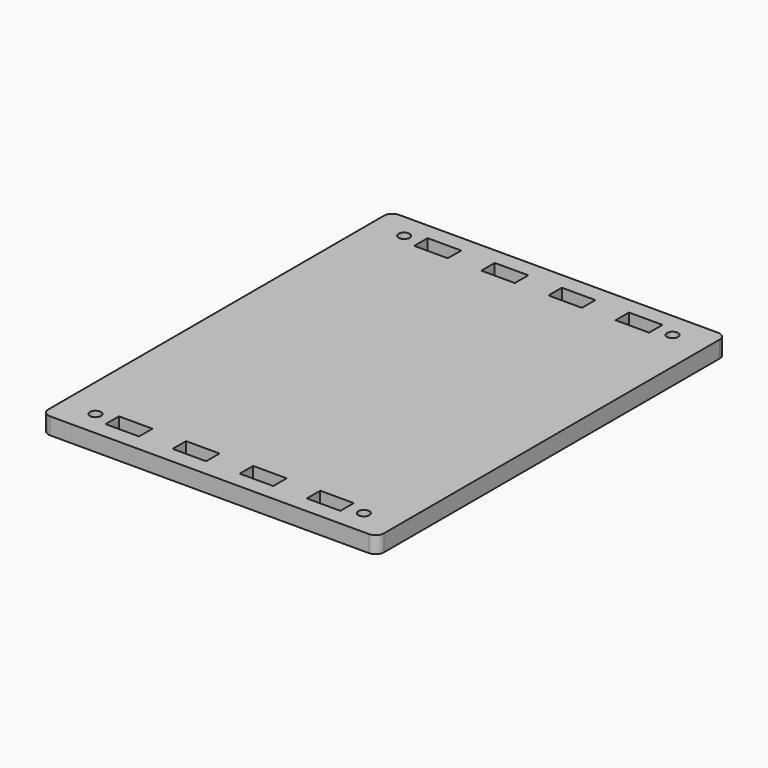
from build123d import *

# Parameters (mm, degrees)
F1_DEPTH = 10
F2_W     = 20
F2_H     = 10
F3_DEPTH = 10
F5_D     = 6.6


with BuildPart() as f1:
    # F0 (on Top) → F1 (new body)
    with BuildSketch(Plane.XY):
        with BuildLine():
            ThreePointArc((100, 125), (98.5355339059, 128.5355339059), (95, 130))
            Line((95, 130), (-95, 130))
            ThreePointArc((-95, 130), (-98.5355339059, 128.5355339059), (-100, 125))
            Line((-100, 125), (-100, -125))
            ThreePointArc((-100, -125), (-98.5355339059, -128.5355339059), (-95, -130))
            Line((-95, -130), (95, -130))
            ThreePointArc((95, -130), (98.5355339059, -128.5355339059), (100, -125))
            Line((100, -125), (100, 125))
        make_face()
    extrude(amount=F1_DEPTH)

    # F2 (on face) → F3 (cut, through all)
    with BuildSketch(Plane.XY.offset(10)):
        with Locations((-60, -115)):
            Rectangle(F2_W, F2_H)
        with Locations((-20, -115)):
            Rectangle(F2_W, F2_H)
        with Locations((20, -115)):
            Rectangle(F2_W, F2_H)
        with Locations((60, -115)):
            Rectangle(F2_W, F2_H)
        with Locations((60, 115)):
            Rectangle(F2_W, F2_H)
        with Locations((-60, 115)):
            Rectangle(F2_W, F2_H)
        with Locations((20, 115)):
            Rectangle(F2_W, F2_H)
        with Locations((-20, 115)):
            Rectangle(F2_W, F2_H)
    extrude(amount=-F3_DEPTH, mode=Mode.SUBTRACT)

    # F5 (through all)
    with Locations(Plane.XY.offset(10)):
        with Locations((-80, 115), (80, 115), (80, -115), (-80, -115)):
            Hole(F5_D / 2)


solid = f1.part
